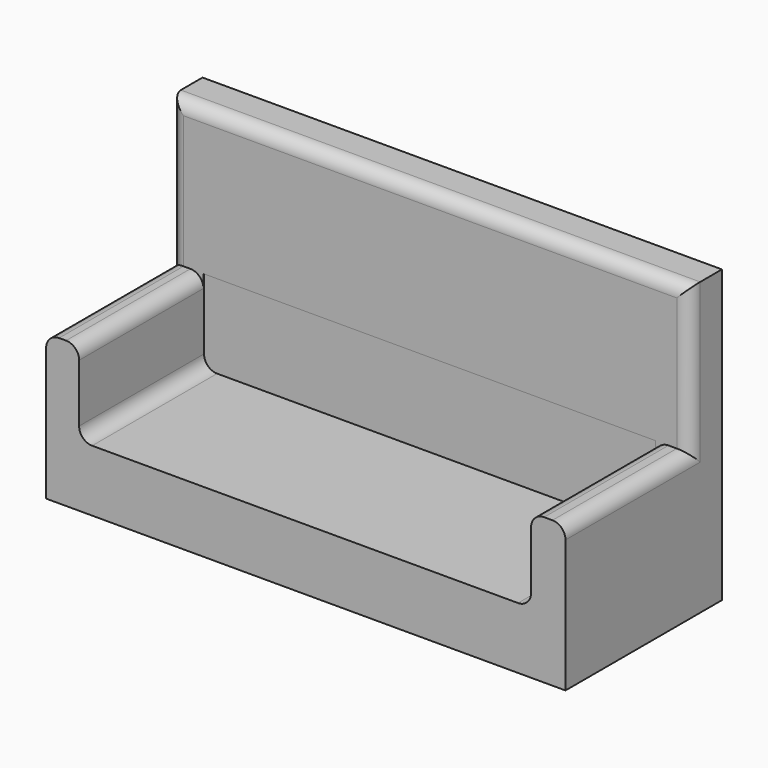
from build123d import *

# Parameters (mm, degrees)
F0_W     = 199.2195397615
F0_H     = 111.6918176413
F1_DEPTH = 75
F2_W     = 199.2195397615
F2_H     = 55.8459088206
F3_DEPTH = 59.6
F4_W     = 173.3557134867
F4_H     = 32.2399325669
F5_DEPTH = 59.9
F6_R     = 5


with BuildPart() as f1:
    # F0 (on Front) → F1 (new body)
    with BuildSketch(Plane.XZ):
        Rectangle(F0_W, F0_H)
    extrude(amount=F1_DEPTH)

    # F2 (on face) → F3 (cut)
    with BuildSketch(Plane.XZ.offset(75)):
        with Locations((0, 27.9229544103)):
            Rectangle(F2_W, F2_H)
    extrude(amount=-F3_DEPTH, mode=Mode.SUBTRACT)

    # F4 (on face) → F5 (cut)
    with BuildSketch(Plane.XZ.offset(75)):
        with Locations((-0.2642646432, -16.1199662834)):
            Rectangle(F4_W, F4_H)
    extrude(amount=-F5_DEPTH, mode=Mode.SUBTRACT)

    # F6
    f6_edges = [f1.edges().sort_by_distance(p)[0] for p in [
        (-99.60977, -45.2, 0),
        (-86.942121, -45.2, 0),
        (-86.942121, -45.05, -32.239933),
        (86.413592, -45.05, -32.239933),
        (86.413592, -45.2, 0),
        (99.60977, -45.2, 0),
        (-99.60977, -15.4, 27.922954),
        (0, -15.4, 55.845909),
        (99.60977, -15.4, 27.922954),
    ]]
    fillet(f6_edges, radius=F6_R)


solid = f1.part
